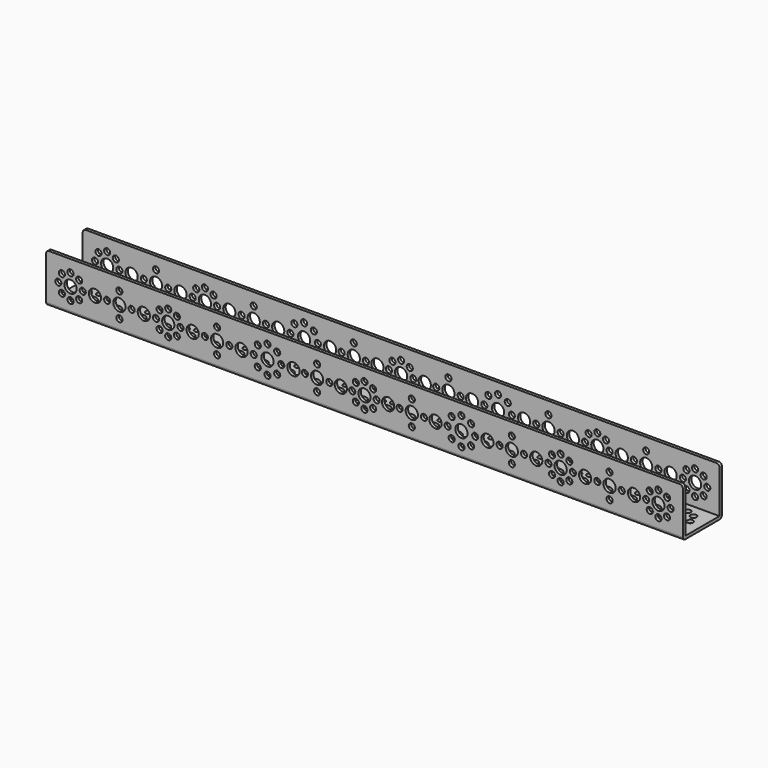
from build123d import *

# Parameters (mm, degrees)
F0_W     = 417
F0_H     = 32
F0_R     = 2
F0_R_2   = 4
F1_DEPTH = 2
F5_W     = 417
F5_H     = 32
F5_R     = 2
F5_R_2   = 4
F6_DEPTH = 2
F4_W     = 417
F4_H     = 32
F4_R     = 2
F4_R_2   = 4
F7_DEPTH = 2
F8_R     = 2


with BuildPart() as f1:
    # F0 (on Top) → F1 (new body)
    with BuildSketch(Plane.XY):
        Rectangle(F0_W, F0_H)
        with Locations((-198.156854, -5.656854)):
            Circle(F0_R, mode=Mode.SUBTRACT)
        with Locations((-192.5, -8)):
            Circle(F0_R, mode=Mode.SUBTRACT)
        with Locations((-186.843146, -5.656854)):
            Circle(F0_R, mode=Mode.SUBTRACT)
        with Locations((-160.5, -8)):
            Circle(F0_R, mode=Mode.SUBTRACT)
        with Locations((-134.156854, -5.656854)):
            Circle(F0_R, mode=Mode.SUBTRACT)
        with Locations((-128.5, -8)):
            Circle(F0_R, mode=Mode.SUBTRACT)
        with Locations((-122.843146, -5.656854)):
            Circle(F0_R, mode=Mode.SUBTRACT)
        with Locations((-200.5, 0)):
            Circle(F0_R, mode=Mode.SUBTRACT)
        with Locations((-192.5, 0)):
            Circle(F0_R_2, mode=Mode.SUBTRACT)
        with Locations((-184.5, 0)):
            Circle(F0_R, mode=Mode.SUBTRACT)
        with Locations((-176.5, 0)):
            Circle(F0_R_2, mode=Mode.SUBTRACT)
        with Locations((-168.5, 0)):
            Circle(F0_R, mode=Mode.SUBTRACT)
        with Locations((-160.5, 0)):
            Circle(F0_R_2, mode=Mode.SUBTRACT)
        with Locations((-198.156854, 5.656854)):
            Circle(F0_R, mode=Mode.SUBTRACT)
        with Locations((-186.843146, 5.656854)):
            Circle(F0_R, mode=Mode.SUBTRACT)
        with Locations((-192.5, 8)):
            Circle(F0_R, mode=Mode.SUBTRACT)
        with Locations((-160.5, 8)):
            Circle(F0_R, mode=Mode.SUBTRACT)
        with Locations((-152.5, 0)):
            Circle(F0_R, mode=Mode.SUBTRACT)
        with Locations((-144.5, 0)):
            Circle(F0_R_2, mode=Mode.SUBTRACT)
        with Locations((-136.5, 0)):
            Circle(F0_R, mode=Mode.SUBTRACT)
        with Locations((-128.5, 0)):
            Circle(F0_R_2, mode=Mode.SUBTRACT)
        with BuildLine():
            ThreePointArc((-118.5, 0), (-120.5, -2), (-122.5, 0))
            ThreePointArc((-122.5, 0), (-120.5, 2), (-118.5, 0))
        make_face(mode=Mode.SUBTRACT)
        with Locations((-112.5, 0)):
            Circle(F0_R_2, mode=Mode.SUBTRACT)
        with Locations((-104.5, 0)):
            Circle(F0_R, mode=Mode.SUBTRACT)
        with Locations((-134.156854, 5.656854)):
            Circle(F0_R, mode=Mode.SUBTRACT)
        with Locations((-122.843146, 5.656854)):
            Circle(F0_R, mode=Mode.SUBTRACT)
        with Locations((-128.5, 8)):
            Circle(F0_R, mode=Mode.SUBTRACT)
        with Locations((-63.5, -9)):
            Circle(F0_R, mode=Mode.SUBTRACT)
        with Locations((-96.5, -8)):
            Circle(F0_R, mode=Mode.SUBTRACT)
        with Locations((-69.863961, -6.363961)):
            Circle(F0_R, mode=Mode.SUBTRACT)
        with Locations((-57.136039, -6.363961)):
            Circle(F0_R, mode=Mode.SUBTRACT)
        with Locations((-31, -8)):
            Circle(F0_R, mode=Mode.SUBTRACT)
        with Locations((0, -8)):
            Circle(F0_R, mode=Mode.SUBTRACT)
        with Locations((-5.656854, -5.656854)):
            Circle(F0_R, mode=Mode.SUBTRACT)
        with Locations((-96.5, 0)):
            Circle(F0_R_2, mode=Mode.SUBTRACT)
        with Locations((-88.5, 0)):
            Circle(F0_R, mode=Mode.SUBTRACT)
        with Locations((-80.5, 0)):
            Circle(F0_R_2, mode=Mode.SUBTRACT)
        with Locations((-72.5, 0)):
            Circle(F0_R, mode=Mode.SUBTRACT)
        with Locations((-63.5, 0)):
            Circle(F0_R_2, mode=Mode.SUBTRACT)
        with Locations((-54.5, 0)):
            Circle(F0_R, mode=Mode.SUBTRACT)
        with Locations((-96.5, 8)):
            Circle(F0_R, mode=Mode.SUBTRACT)
        with Locations((-69.863961, 6.363961)):
            Circle(F0_R, mode=Mode.SUBTRACT)
        with Locations((-57.136039, 6.363961)):
            Circle(F0_R, mode=Mode.SUBTRACT)
        with Locations((-63.5, 9)):
            Circle(F0_R, mode=Mode.SUBTRACT)
        with Locations((-46.5, 0)):
            Circle(F0_R_2, mode=Mode.SUBTRACT)
        with Locations((-39, 0)):
            Circle(F0_R, mode=Mode.SUBTRACT)
        with Locations((-31, 0)):
            Circle(F0_R_2, mode=Mode.SUBTRACT)
        with Locations((-23, 0)):
            Circle(F0_R, mode=Mode.SUBTRACT)
        with Locations((-15.5, 0)):
            Circle(F0_R_2, mode=Mode.SUBTRACT)
        with Locations((-8, 0)):
            Circle(F0_R, mode=Mode.SUBTRACT)
        Circle(F0_R_2, mode=Mode.SUBTRACT)
        with Locations((-31, 8)):
            Circle(F0_R, mode=Mode.SUBTRACT)
        with Locations((-5.656854, 5.656854)):
            Circle(F0_R, mode=Mode.SUBTRACT)
        with Locations((0, 8)):
            Circle(F0_R, mode=Mode.SUBTRACT)
        with Locations((5.656854, -5.656854)):
            Circle(F0_R, mode=Mode.SUBTRACT)
        with Locations((31, -8)):
            Circle(F0_R, mode=Mode.SUBTRACT)
        with Locations((63.5, -9)):
            Circle(F0_R, mode=Mode.SUBTRACT)
        with Locations((57.136039, -6.363961)):
            Circle(F0_R, mode=Mode.SUBTRACT)
        with Locations((69.863961, -6.363961)):
            Circle(F0_R, mode=Mode.SUBTRACT)
        with Locations((96.5, -8)):
            Circle(F0_R, mode=Mode.SUBTRACT)
        with Locations((8, 0)):
            Circle(F0_R, mode=Mode.SUBTRACT)
        with Locations((15.5, 0)):
            Circle(F0_R_2, mode=Mode.SUBTRACT)
        with Locations((23, 0)):
            Circle(F0_R, mode=Mode.SUBTRACT)
        with Locations((31, 0)):
            Circle(F0_R_2, mode=Mode.SUBTRACT)
        with Locations((39, 0)):
            Circle(F0_R, mode=Mode.SUBTRACT)
        with Locations((46.5, 0)):
            Circle(F0_R_2, mode=Mode.SUBTRACT)
        with Locations((5.656854, 5.656854)):
            Circle(F0_R, mode=Mode.SUBTRACT)
        with Locations((31, 8)):
            Circle(F0_R, mode=Mode.SUBTRACT)
        with Locations((54.5, 0)):
            Circle(F0_R, mode=Mode.SUBTRACT)
        with Locations((63.5, 0)):
            Circle(F0_R_2, mode=Mode.SUBTRACT)
        with Locations((72.5, 0)):
            Circle(F0_R, mode=Mode.SUBTRACT)
        with Locations((80.5, 0)):
            Circle(F0_R_2, mode=Mode.SUBTRACT)
        with Locations((88.5, 0)):
            Circle(F0_R, mode=Mode.SUBTRACT)
        with Locations((96.5, 0)):
            Circle(F0_R_2, mode=Mode.SUBTRACT)
        with Locations((57.136039, 6.363961)):
            Circle(F0_R, mode=Mode.SUBTRACT)
        with Locations((69.863961, 6.363961)):
            Circle(F0_R, mode=Mode.SUBTRACT)
        with Locations((63.5, 9)):
            Circle(F0_R, mode=Mode.SUBTRACT)
        with Locations((96.5, 8)):
            Circle(F0_R, mode=Mode.SUBTRACT)
        with Locations((128.5, -8)):
            Circle(F0_R, mode=Mode.SUBTRACT)
        with Locations((122.843146, -5.656854)):
            Circle(F0_R, mode=Mode.SUBTRACT)
        with Locations((134.156854, -5.656854)):
            Circle(F0_R, mode=Mode.SUBTRACT)
        with Locations((160.5, -8)):
            Circle(F0_R, mode=Mode.SUBTRACT)
        with Locations((192.5, -8)):
            Circle(F0_R, mode=Mode.SUBTRACT)
        with Locations((186.843146, -5.656854)):
            Circle(F0_R, mode=Mode.SUBTRACT)
        with Locations((198.156854, -5.656854)):
            Circle(F0_R, mode=Mode.SUBTRACT)
        with Locations((104.5, 0)):
            Circle(F0_R, mode=Mode.SUBTRACT)
        with Locations((112.5, 0)):
            Circle(F0_R_2, mode=Mode.SUBTRACT)
        with Locations((120.5, 0)):
            Circle(F0_R, mode=Mode.SUBTRACT)
        with Locations((128.5, 0)):
            Circle(F0_R_2, mode=Mode.SUBTRACT)
        with Locations((136.5, 0)):
            Circle(F0_R, mode=Mode.SUBTRACT)
        with Locations((144.5, 0)):
            Circle(F0_R_2, mode=Mode.SUBTRACT)
        with Locations((152.5, 0)):
            Circle(F0_R, mode=Mode.SUBTRACT)
        with Locations((122.843146, 5.656854)):
            Circle(F0_R, mode=Mode.SUBTRACT)
        with Locations((128.5, 8)):
            Circle(F0_R, mode=Mode.SUBTRACT)
        with Locations((134.156854, 5.656854)):
            Circle(F0_R, mode=Mode.SUBTRACT)
        with Locations((160.5, 0)):
            Circle(F0_R_2, mode=Mode.SUBTRACT)
        with Locations((168.5, 0)):
            Circle(F0_R, mode=Mode.SUBTRACT)
        with Locations((176.5, 0)):
            Circle(F0_R_2, mode=Mode.SUBTRACT)
        with Locations((184.5, 0)):
            Circle(F0_R, mode=Mode.SUBTRACT)
        with Locations((192.5, 0)):
            Circle(F0_R_2, mode=Mode.SUBTRACT)
        with Locations((200.5, 0)):
            Circle(F0_R, mode=Mode.SUBTRACT)
        with Locations((160.5, 8)):
            Circle(F0_R, mode=Mode.SUBTRACT)
        with Locations((186.843146, 5.656854)):
            Circle(F0_R, mode=Mode.SUBTRACT)
        with Locations((192.5, 8)):
            Circle(F0_R, mode=Mode.SUBTRACT)
        with Locations((198.156854, 5.656854)):
            Circle(F0_R, mode=Mode.SUBTRACT)
    extrude(amount=F1_DEPTH)

    # F5 (on face) → F6 (join)
    with BuildSketch(Plane.XZ.offset(-16)):
        with Locations((0, 16)):
            Rectangle(F5_W, F5_H)
        with Locations((-63.500149, 7)):
            Circle(F5_R, mode=Mode.SUBTRACT)
        with Locations((-192.5, 8.04875)):
            Circle(F5_R, mode=Mode.SUBTRACT)
        with Locations((-160.500149, 8)):
            Circle(F5_R, mode=Mode.SUBTRACT)
        with Locations((-198.156854, 10.391896)):
            Circle(F5_R, mode=Mode.SUBTRACT)
        with Locations((-186.843146, 10.391896)):
            Circle(F5_R, mode=Mode.SUBTRACT)
        with Locations((-128.500149, 8)):
            Circle(F5_R, mode=Mode.SUBTRACT)
        with Locations((-134.157003, 10.343146)):
            Circle(F5_R, mode=Mode.SUBTRACT)
        with Locations((-122.843294, 10.343146)):
            Circle(F5_R, mode=Mode.SUBTRACT)
        with Locations((-96.500149, 8)):
            Circle(F5_R, mode=Mode.SUBTRACT)
        with Locations((-69.86411, 9.636039)):
            Circle(F5_R, mode=Mode.SUBTRACT)
        with Locations((-57.136188, 9.636039)):
            Circle(F5_R, mode=Mode.SUBTRACT)
        with Locations((-31.000149, 8)):
            Circle(F5_R, mode=Mode.SUBTRACT)
        with Locations((0, 8)):
            Circle(F5_R, mode=Mode.SUBTRACT)
        with Locations((-5.656854, 10.343146)):
            Circle(F5_R, mode=Mode.SUBTRACT)
        with Locations((63.500149, 7)):
            Circle(F5_R, mode=Mode.SUBTRACT)
        with Locations((31.000149, 8)):
            Circle(F5_R, mode=Mode.SUBTRACT)
        with Locations((5.656854, 10.343146)):
            Circle(F5_R, mode=Mode.SUBTRACT)
        with Locations((57.136188, 9.636039)):
            Circle(F5_R, mode=Mode.SUBTRACT)
        with Locations((69.86411, 9.636039)):
            Circle(F5_R, mode=Mode.SUBTRACT)
        with Locations((96.500149, 8)):
            Circle(F5_R, mode=Mode.SUBTRACT)
        with Locations((128.500149, 8)):
            Circle(F5_R, mode=Mode.SUBTRACT)
        with Locations((122.843294, 10.343146)):
            Circle(F5_R, mode=Mode.SUBTRACT)
        with Locations((134.157003, 10.343146)):
            Circle(F5_R, mode=Mode.SUBTRACT)
        with Locations((160.500149, 8)):
            Circle(F5_R, mode=Mode.SUBTRACT)
        with Locations((192.5, 8.04875)):
            Circle(F5_R, mode=Mode.SUBTRACT)
        with Locations((186.843146, 10.391896)):
            Circle(F5_R, mode=Mode.SUBTRACT)
        with Locations((198.156854, 10.391896)):
            Circle(F5_R, mode=Mode.SUBTRACT)
        with Locations((-200.5, 16.04875)):
            Circle(F5_R, mode=Mode.SUBTRACT)
        with Locations((-192.5, 16.04875)):
            Circle(F5_R_2, mode=Mode.SUBTRACT)
        with Locations((-184.5, 16.04875)):
            Circle(F5_R, mode=Mode.SUBTRACT)
        with Locations((-176.500149, 16)):
            Circle(F5_R_2, mode=Mode.SUBTRACT)
        with Locations((-168.500149, 16)):
            Circle(F5_R, mode=Mode.SUBTRACT)
        with Locations((-160.500149, 16)):
            Circle(F5_R_2, mode=Mode.SUBTRACT)
        with Locations((-152.500149, 16)):
            Circle(F5_R, mode=Mode.SUBTRACT)
        with Locations((-144.500149, 16)):
            Circle(F5_R_2, mode=Mode.SUBTRACT)
        with Locations((-136.500149, 16)):
            Circle(F5_R, mode=Mode.SUBTRACT)
        with Locations((-128.500149, 16)):
            Circle(F5_R_2, mode=Mode.SUBTRACT)
        with BuildLine():
            ThreePointArc((-118.500149, 16), (-120.500149, 14), (-122.500149, 16))
            ThreePointArc((-122.500149, 16), (-120.500149, 18), (-118.500149, 16))
        make_face(mode=Mode.SUBTRACT)
        with Locations((-112.500149, 16)):
            Circle(F5_R_2, mode=Mode.SUBTRACT)
        with Locations((-104.500149, 16)):
            Circle(F5_R, mode=Mode.SUBTRACT)
        with Locations((-198.156854, 21.705604)):
            Circle(F5_R, mode=Mode.SUBTRACT)
        with Locations((-186.843146, 21.705604)):
            Circle(F5_R, mode=Mode.SUBTRACT)
        with Locations((-134.157003, 21.656854)):
            Circle(F5_R, mode=Mode.SUBTRACT)
        with Locations((-122.843294, 21.656854)):
            Circle(F5_R, mode=Mode.SUBTRACT)
        with Locations((-96.500149, 16)):
            Circle(F5_R_2, mode=Mode.SUBTRACT)
        with Locations((-88.500149, 16)):
            Circle(F5_R, mode=Mode.SUBTRACT)
        with Locations((-80.500149, 16)):
            Circle(F5_R_2, mode=Mode.SUBTRACT)
        with Locations((-72.500149, 16)):
            Circle(F5_R, mode=Mode.SUBTRACT)
        with Locations((-63.500149, 16)):
            Circle(F5_R_2, mode=Mode.SUBTRACT)
        with Locations((-54.500149, 16)):
            Circle(F5_R, mode=Mode.SUBTRACT)
        with Locations((-46.500149, 16)):
            Circle(F5_R_2, mode=Mode.SUBTRACT)
        with Locations((-39.000149, 16)):
            Circle(F5_R, mode=Mode.SUBTRACT)
        with Locations((-31.000149, 16)):
            Circle(F5_R_2, mode=Mode.SUBTRACT)
        with Locations((-23.000149, 16)):
            Circle(F5_R, mode=Mode.SUBTRACT)
        with Locations((-15.500149, 16)):
            Circle(F5_R_2, mode=Mode.SUBTRACT)
        with Locations((-8, 16)):
            Circle(F5_R, mode=Mode.SUBTRACT)
        with Locations((0, 16)):
            Circle(F5_R_2, mode=Mode.SUBTRACT)
        with Locations((-69.86411, 22.363961)):
            Circle(F5_R, mode=Mode.SUBTRACT)
        with Locations((-57.136188, 22.363961)):
            Circle(F5_R, mode=Mode.SUBTRACT)
        with Locations((-5.656854, 21.656854)):
            Circle(F5_R, mode=Mode.SUBTRACT)
        with Locations((-192.5, 24.04875)):
            Circle(F5_R, mode=Mode.SUBTRACT)
        with Locations((-160.500149, 24)):
            Circle(F5_R, mode=Mode.SUBTRACT)
        with Locations((-128.500149, 24)):
            Circle(F5_R, mode=Mode.SUBTRACT)
        with Locations((-96.500149, 24)):
            Circle(F5_R, mode=Mode.SUBTRACT)
        with Locations((-63.500149, 25)):
            Circle(F5_R, mode=Mode.SUBTRACT)
        with Locations((-31.000149, 24)):
            Circle(F5_R, mode=Mode.SUBTRACT)
        with Locations((0, 24)):
            Circle(F5_R, mode=Mode.SUBTRACT)
        with Locations((8, 16)):
            Circle(F5_R, mode=Mode.SUBTRACT)
        with Locations((15.500149, 16)):
            Circle(F5_R_2, mode=Mode.SUBTRACT)
        with Locations((23.000149, 16)):
            Circle(F5_R, mode=Mode.SUBTRACT)
        with Locations((31.000149, 16)):
            Circle(F5_R_2, mode=Mode.SUBTRACT)
        with Locations((39.000149, 16)):
            Circle(F5_R, mode=Mode.SUBTRACT)
        with Locations((46.500149, 16)):
            Circle(F5_R_2, mode=Mode.SUBTRACT)
        with Locations((54.500149, 16)):
            Circle(F5_R, mode=Mode.SUBTRACT)
        with Locations((63.500149, 16)):
            Circle(F5_R_2, mode=Mode.SUBTRACT)
        with Locations((72.500149, 16)):
            Circle(F5_R, mode=Mode.SUBTRACT)
        with Locations((80.500149, 16)):
            Circle(F5_R_2, mode=Mode.SUBTRACT)
        with Locations((88.500149, 16)):
            Circle(F5_R, mode=Mode.SUBTRACT)
        with Locations((96.500149, 16)):
            Circle(F5_R_2, mode=Mode.SUBTRACT)
        with Locations((5.656854, 21.656854)):
            Circle(F5_R, mode=Mode.SUBTRACT)
        with Locations((57.136188, 22.363961)):
            Circle(F5_R, mode=Mode.SUBTRACT)
        with Locations((69.86411, 22.363961)):
            Circle(F5_R, mode=Mode.SUBTRACT)
        with Locations((104.500149, 16)):
            Circle(F5_R, mode=Mode.SUBTRACT)
        with Locations((112.500149, 16)):
            Circle(F5_R_2, mode=Mode.SUBTRACT)
        with Locations((120.500149, 16)):
            Circle(F5_R, mode=Mode.SUBTRACT)
        with Locations((128.500149, 16)):
            Circle(F5_R_2, mode=Mode.SUBTRACT)
        with Locations((136.500149, 16)):
            Circle(F5_R, mode=Mode.SUBTRACT)
        with Locations((144.500149, 16)):
            Circle(F5_R_2, mode=Mode.SUBTRACT)
        with Locations((152.500149, 16)):
            Circle(F5_R, mode=Mode.SUBTRACT)
        with Locations((160.500149, 16)):
            Circle(F5_R_2, mode=Mode.SUBTRACT)
        with Locations((168.500149, 16)):
            Circle(F5_R, mode=Mode.SUBTRACT)
        with Locations((176.500149, 16)):
            Circle(F5_R_2, mode=Mode.SUBTRACT)
        with Locations((184.5, 16.04875)):
            Circle(F5_R, mode=Mode.SUBTRACT)
        with Locations((192.5, 16.04875)):
            Circle(F5_R_2, mode=Mode.SUBTRACT)
        with Locations((200.5, 16.04875)):
            Circle(F5_R, mode=Mode.SUBTRACT)
        with Locations((122.843294, 21.656854)):
            Circle(F5_R, mode=Mode.SUBTRACT)
        with Locations((134.157003, 21.656854)):
            Circle(F5_R, mode=Mode.SUBTRACT)
        with Locations((186.843146, 21.705604)):
            Circle(F5_R, mode=Mode.SUBTRACT)
        with Locations((198.156854, 21.705604)):
            Circle(F5_R, mode=Mode.SUBTRACT)
        with Locations((31.000149, 24)):
            Circle(F5_R, mode=Mode.SUBTRACT)
        with Locations((63.500149, 25)):
            Circle(F5_R, mode=Mode.SUBTRACT)
        with Locations((96.500149, 24)):
            Circle(F5_R, mode=Mode.SUBTRACT)
        with Locations((128.500149, 24)):
            Circle(F5_R, mode=Mode.SUBTRACT)
        with Locations((160.500149, 24)):
            Circle(F5_R, mode=Mode.SUBTRACT)
        with Locations((192.5, 24.04875)):
            Circle(F5_R, mode=Mode.SUBTRACT)
    extrude(amount=F6_DEPTH)

    # F4 (on face) → F7 (join)
    with BuildSketch(Plane.XZ.offset(16)):
        with Locations((0, 16)):
            Rectangle(F4_W, F4_H)
        with Locations((-63.500149, 7)):
            Circle(F4_R, mode=Mode.SUBTRACT)
        with Locations((-192.5, 8.04875)):
            Circle(F4_R, mode=Mode.SUBTRACT)
        with Locations((-160.500149, 8)):
            Circle(F4_R, mode=Mode.SUBTRACT)
        with Locations((-198.156854, 10.391896)):
            Circle(F4_R, mode=Mode.SUBTRACT)
        with Locations((-186.843146, 10.391896)):
            Circle(F4_R, mode=Mode.SUBTRACT)
        with Locations((-128.500149, 8)):
            Circle(F4_R, mode=Mode.SUBTRACT)
        with Locations((-134.157003, 10.343146)):
            Circle(F4_R, mode=Mode.SUBTRACT)
        with Locations((-122.843294, 10.343146)):
            Circle(F4_R, mode=Mode.SUBTRACT)
        with Locations((-96.500149, 8)):
            Circle(F4_R, mode=Mode.SUBTRACT)
        with Locations((-69.86411, 9.636039)):
            Circle(F4_R, mode=Mode.SUBTRACT)
        with Locations((-57.136188, 9.636039)):
            Circle(F4_R, mode=Mode.SUBTRACT)
        with Locations((-31.000149, 8)):
            Circle(F4_R, mode=Mode.SUBTRACT)
        with Locations((0, 8)):
            Circle(F4_R, mode=Mode.SUBTRACT)
        with Locations((-5.656854, 10.343146)):
            Circle(F4_R, mode=Mode.SUBTRACT)
        with Locations((63.500149, 7)):
            Circle(F4_R, mode=Mode.SUBTRACT)
        with Locations((31.000149, 8)):
            Circle(F4_R, mode=Mode.SUBTRACT)
        with Locations((5.656854, 10.343146)):
            Circle(F4_R, mode=Mode.SUBTRACT)
        with Locations((57.136188, 9.636039)):
            Circle(F4_R, mode=Mode.SUBTRACT)
        with Locations((69.86411, 9.636039)):
            Circle(F4_R, mode=Mode.SUBTRACT)
        with Locations((96.500149, 8)):
            Circle(F4_R, mode=Mode.SUBTRACT)
        with Locations((128.500149, 8)):
            Circle(F4_R, mode=Mode.SUBTRACT)
        with Locations((122.843294, 10.343146)):
            Circle(F4_R, mode=Mode.SUBTRACT)
        with Locations((134.157003, 10.343146)):
            Circle(F4_R, mode=Mode.SUBTRACT)
        with Locations((160.500149, 8)):
            Circle(F4_R, mode=Mode.SUBTRACT)
        with Locations((192.5, 8.04875)):
            Circle(F4_R, mode=Mode.SUBTRACT)
        with Locations((186.843146, 10.391896)):
            Circle(F4_R, mode=Mode.SUBTRACT)
        with Locations((198.156854, 10.391896)):
            Circle(F4_R, mode=Mode.SUBTRACT)
        with Locations((-200.5, 16.04875)):
            Circle(F4_R, mode=Mode.SUBTRACT)
        with Locations((-192.5, 16.04875)):
            Circle(F4_R_2, mode=Mode.SUBTRACT)
        with Locations((-184.5, 16.04875)):
            Circle(F4_R, mode=Mode.SUBTRACT)
        with Locations((-176.500149, 16)):
            Circle(F4_R_2, mode=Mode.SUBTRACT)
        with Locations((-168.500149, 16)):
            Circle(F4_R, mode=Mode.SUBTRACT)
        with Locations((-160.500149, 16)):
            Circle(F4_R_2, mode=Mode.SUBTRACT)
        with Locations((-152.500149, 16)):
            Circle(F4_R, mode=Mode.SUBTRACT)
        with Locations((-144.500149, 16)):
            Circle(F4_R_2, mode=Mode.SUBTRACT)
        with Locations((-136.500149, 16)):
            Circle(F4_R, mode=Mode.SUBTRACT)
        with Locations((-128.500149, 16)):
            Circle(F4_R_2, mode=Mode.SUBTRACT)
        with BuildLine():
            ThreePointArc((-118.500149, 16), (-120.500149, 14), (-122.500149, 16))
            ThreePointArc((-122.500149, 16), (-120.500149, 18), (-118.500149, 16))
        make_face(mode=Mode.SUBTRACT)
        with Locations((-112.500149, 16)):
            Circle(F4_R_2, mode=Mode.SUBTRACT)
        with Locations((-104.500149, 16)):
            Circle(F4_R, mode=Mode.SUBTRACT)
        with Locations((-198.156854, 21.705604)):
            Circle(F4_R, mode=Mode.SUBTRACT)
        with Locations((-186.843146, 21.705604)):
            Circle(F4_R, mode=Mode.SUBTRACT)
        with Locations((-134.157003, 21.656854)):
            Circle(F4_R, mode=Mode.SUBTRACT)
        with Locations((-122.843294, 21.656854)):
            Circle(F4_R, mode=Mode.SUBTRACT)
        with Locations((-96.500149, 16)):
            Circle(F4_R_2, mode=Mode.SUBTRACT)
        with Locations((-88.500149, 16)):
            Circle(F4_R, mode=Mode.SUBTRACT)
        with Locations((-80.500149, 16)):
            Circle(F4_R_2, mode=Mode.SUBTRACT)
        with Locations((-72.500149, 16)):
            Circle(F4_R, mode=Mode.SUBTRACT)
        with Locations((-63.500149, 16)):
            Circle(F4_R_2, mode=Mode.SUBTRACT)
        with Locations((-54.500149, 16)):
            Circle(F4_R, mode=Mode.SUBTRACT)
        with Locations((-46.500149, 16)):
            Circle(F4_R_2, mode=Mode.SUBTRACT)
        with Locations((-39.000149, 16)):
            Circle(F4_R, mode=Mode.SUBTRACT)
        with Locations((-31.000149, 16)):
            Circle(F4_R_2, mode=Mode.SUBTRACT)
        with Locations((-23.000149, 16)):
            Circle(F4_R, mode=Mode.SUBTRACT)
        with Locations((-15.500149, 16)):
            Circle(F4_R_2, mode=Mode.SUBTRACT)
        with Locations((-8, 16)):
            Circle(F4_R, mode=Mode.SUBTRACT)
        with Locations((0, 16)):
            Circle(F4_R_2, mode=Mode.SUBTRACT)
        with Locations((-69.86411, 22.363961)):
            Circle(F4_R, mode=Mode.SUBTRACT)
        with Locations((-57.136188, 22.363961)):
            Circle(F4_R, mode=Mode.SUBTRACT)
        with Locations((-5.656854, 21.656854)):
            Circle(F4_R, mode=Mode.SUBTRACT)
        with Locations((-192.5, 24.04875)):
            Circle(F4_R, mode=Mode.SUBTRACT)
        with Locations((-160.500149, 24)):
            Circle(F4_R, mode=Mode.SUBTRACT)
        with Locations((-128.500149, 24)):
            Circle(F4_R, mode=Mode.SUBTRACT)
        with Locations((-96.500149, 24)):
            Circle(F4_R, mode=Mode.SUBTRACT)
        with Locations((-63.500149, 25)):
            Circle(F4_R, mode=Mode.SUBTRACT)
        with Locations((-31.000149, 24)):
            Circle(F4_R, mode=Mode.SUBTRACT)
        with Locations((0, 24)):
            Circle(F4_R, mode=Mode.SUBTRACT)
        with Locations((8, 16)):
            Circle(F4_R, mode=Mode.SUBTRACT)
        with Locations((15.500149, 16)):
            Circle(F4_R_2, mode=Mode.SUBTRACT)
        with Locations((23.000149, 16)):
            Circle(F4_R, mode=Mode.SUBTRACT)
        with Locations((31.000149, 16)):
            Circle(F4_R_2, mode=Mode.SUBTRACT)
        with Locations((39.000149, 16)):
            Circle(F4_R, mode=Mode.SUBTRACT)
        with Locations((46.500149, 16)):
            Circle(F4_R_2, mode=Mode.SUBTRACT)
        with Locations((54.500149, 16)):
            Circle(F4_R, mode=Mode.SUBTRACT)
        with Locations((63.500149, 16)):
            Circle(F4_R_2, mode=Mode.SUBTRACT)
        with Locations((72.500149, 16)):
            Circle(F4_R, mode=Mode.SUBTRACT)
        with Locations((80.500149, 16)):
            Circle(F4_R_2, mode=Mode.SUBTRACT)
        with Locations((88.500149, 16)):
            Circle(F4_R, mode=Mode.SUBTRACT)
        with Locations((96.500149, 16)):
            Circle(F4_R_2, mode=Mode.SUBTRACT)
        with Locations((5.656854, 21.656854)):
            Circle(F4_R, mode=Mode.SUBTRACT)
        with Locations((57.136188, 22.363961)):
            Circle(F4_R, mode=Mode.SUBTRACT)
        with Locations((69.86411, 22.363961)):
            Circle(F4_R, mode=Mode.SUBTRACT)
        with Locations((104.500149, 16)):
            Circle(F4_R, mode=Mode.SUBTRACT)
        with Locations((112.500149, 16)):
            Circle(F4_R_2, mode=Mode.SUBTRACT)
        with Locations((120.500149, 16)):
            Circle(F4_R, mode=Mode.SUBTRACT)
        with Locations((128.500149, 16)):
            Circle(F4_R_2, mode=Mode.SUBTRACT)
        with Locations((136.500149, 16)):
            Circle(F4_R, mode=Mode.SUBTRACT)
        with Locations((144.500149, 16)):
            Circle(F4_R_2, mode=Mode.SUBTRACT)
        with Locations((152.500149, 16)):
            Circle(F4_R, mode=Mode.SUBTRACT)
        with Locations((160.500149, 16)):
            Circle(F4_R_2, mode=Mode.SUBTRACT)
        with Locations((168.500149, 16)):
            Circle(F4_R, mode=Mode.SUBTRACT)
        with Locations((176.500149, 16)):
            Circle(F4_R_2, mode=Mode.SUBTRACT)
        with Locations((184.5, 16.04875)):
            Circle(F4_R, mode=Mode.SUBTRACT)
        with Locations((192.5, 16.04875)):
            Circle(F4_R_2, mode=Mode.SUBTRACT)
        with Locations((200.5, 16.04875)):
            Circle(F4_R, mode=Mode.SUBTRACT)
        with Locations((122.843294, 21.656854)):
            Circle(F4_R, mode=Mode.SUBTRACT)
        with Locations((134.157003, 21.656854)):
            Circle(F4_R, mode=Mode.SUBTRACT)
        with Locations((186.843146, 21.705604)):
            Circle(F4_R, mode=Mode.SUBTRACT)
        with Locations((198.156854, 21.705604)):
            Circle(F4_R, mode=Mode.SUBTRACT)
        with Locations((31.000149, 24)):
            Circle(F4_R, mode=Mode.SUBTRACT)
        with Locations((63.500149, 25)):
            Circle(F4_R, mode=Mode.SUBTRACT)
        with Locations((96.500149, 24)):
            Circle(F4_R, mode=Mode.SUBTRACT)
        with Locations((128.500149, 24)):
            Circle(F4_R, mode=Mode.SUBTRACT)
        with Locations((160.500149, 24)):
            Circle(F4_R, mode=Mode.SUBTRACT)
        with Locations((192.5, 24.04875)):
            Circle(F4_R, mode=Mode.SUBTRACT)
    extrude(amount=-F7_DEPTH)

    # F8
    f8_edges = [f1.edges().sort_by_distance(p)[0] for p in [
        (0, -16, 0),
        (0, 16, 0),
        (208.5, -15, 32),
        (208.5, 15, 32),
        (-208.5, 15, 32),
        (-208.5, -15, 32),
    ]]
    fillet(f8_edges, radius=F8_R)


solid = f1.part
